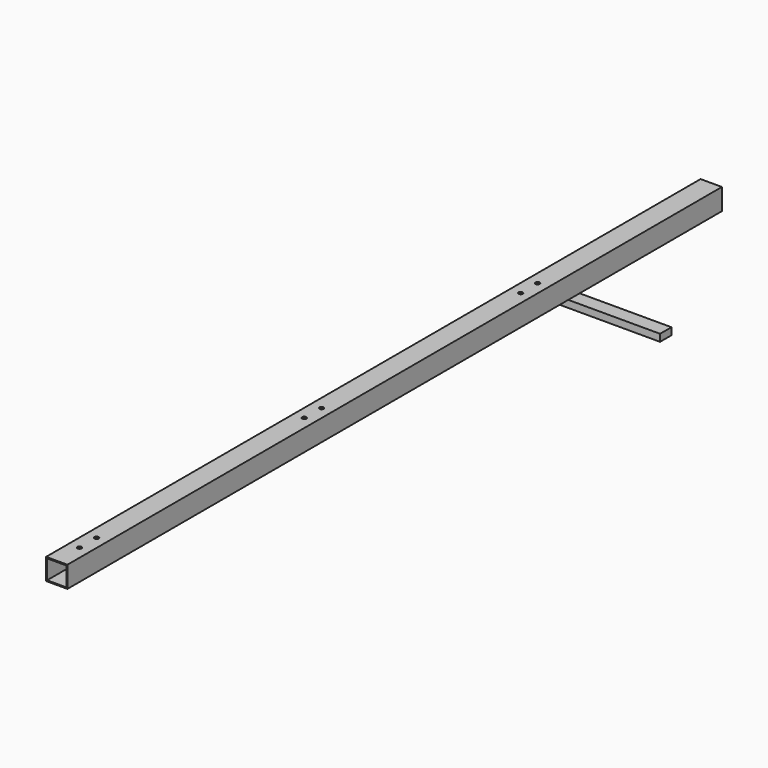
from build123d import *

# Parameters (mm, degrees)
F0_W     = 60
F0_H     = 60
F0_W_2   = 54
F0_H_2   = 54
F1_DEPTH = 2300
F2_R     = 6
F3_DEPTH = 100
F4_W     = 318.082194
F4_H     = 40
F5_DEPTH = 20


with BuildPart() as f1:
    # F0 (on Front) → F1 (new body)
    with BuildSketch(Plane.XZ):
        with Locations((30, -30)):
            Rectangle(F0_W, F0_H)
        with Locations((30, -30)):
            Rectangle(F0_W_2, F0_H_2, mode=Mode.SUBTRACT)
    extrude(amount=F1_DEPTH)

    # F2 (on face) → F3 (cut)
    with BuildSketch(Plane(origin=(0, 0, -60), x_dir=(1, 0, 0), z_dir=(0, 0, -1))):
        with Locations((30, 610.001519)):
            Circle(F2_R)
        with Locations((30, 670.001519)):
            Circle(F2_R)
        with Locations((30, 1430)):
            Circle(F2_R)
        with Locations((30.426905, 1370.001519)):
            Circle(F2_R)
        with Locations((30, 2220)):
            Circle(F2_R)
        with Locations((30, 2160)):
            Circle(F2_R)
    extrude(amount=-F3_DEPTH, mode=Mode.SUBTRACT)

    # F4 (on face) → F5 (join)
    with BuildSketch(Plane(origin=(0, 0, -60), x_dir=(1, 0, 0), z_dir=(0, 0, -1))):
        with Locations((159.041097, 520)):
            Rectangle(F4_W, F4_H)
    extrude(amount=F5_DEPTH)


solid = f1.part
